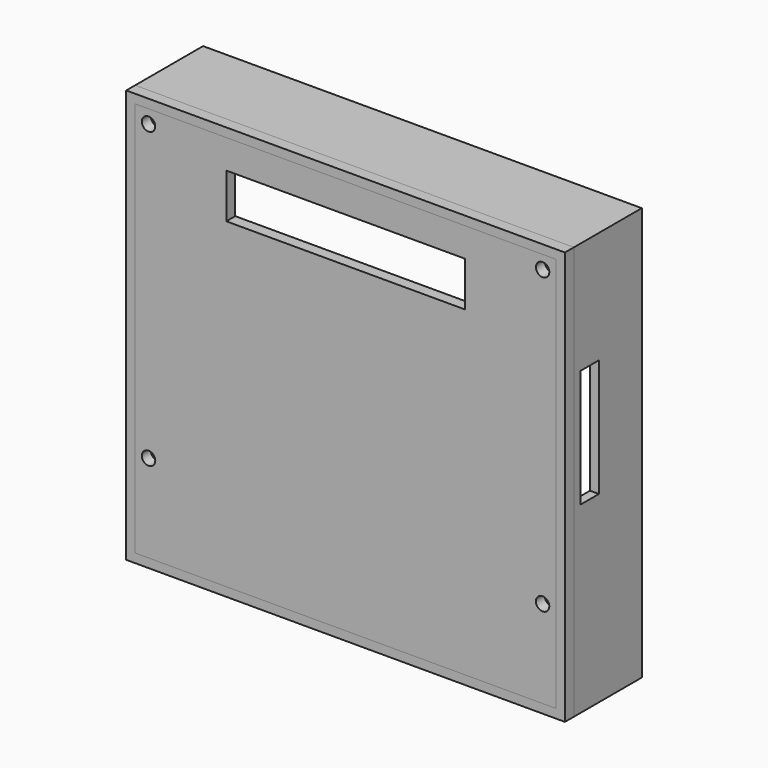
from build123d import *

# Parameters (mm, degrees)
F0_W     = 94.2
F0_H     = 88.5
F0_R     = 1.5
F0_W_2   = 53.4
F0_H_2   = 10
F1_DEPTH = 2.5
F2_W     = 98.2
F2_H     = 92.5
F3_DEPTH = 19
F4_W     = 98.2
F4_H     = 92.5
F4_W_2   = 94.2
F4_H_2   = 88.5
F5_DEPTH = 2.5
F6_W     = 5.1
F6_H     = 26.35
F7_DEPTH = 2.1


with BuildPart() as f1:
    # F0 (on Front) → F1 (new body)
    with BuildSketch(Plane.XZ):
        with Locations((47.1, 44.25)):
            Rectangle(F0_W, F0_H)
        with Locations((3, 19.65)):
            Circle(F0_R, mode=Mode.SUBTRACT)
        with Locations((91.2, 19.65)):
            Circle(F0_R, mode=Mode.SUBTRACT)
        with Locations((3, 85.5)):
            Circle(F0_R, mode=Mode.SUBTRACT)
        with Locations((47.1, 77)):
            Rectangle(F0_W_2, F0_H_2, mode=Mode.SUBTRACT)
        with Locations((91.2, 85.5)):
            Circle(F0_R, mode=Mode.SUBTRACT)
    extrude(amount=-F1_DEPTH)

    # F2 (on face) → F3 (join)
    with BuildSketch(Plane(origin=(0, 2.5, 0), x_dir=(-1, 0, 0), z_dir=(0, 1, 0))):
        with Locations((-47.1, 44.25)):
            Rectangle(F2_W, F2_H)
        with BuildLine():
            Line((-94.2, 87.75), (-94.2, 88.5))
            Line((-94.2, 88.5), (-93.45, 88.5))
            ThreePointArc((-93.45, 88.5), (-91.2, 89.25), (-88.95, 88.5))
            Line((-88.95, 88.5), (-5.25, 88.5))
            ThreePointArc((-5.25, 88.5), (-3, 89.25), (-0.75, 88.5))
            Line((-0.75, 88.5), (0, 88.5))
            Line((0, 88.5), (0, 87.75))
            ThreePointArc((0, 87.75), (0.75, 85.5), (0, 83.25))
            Line((0, 83.25), (0, 21.9))
            ThreePointArc((0, 21.9), (0.75, 19.65), (0, 17.4))
            Line((0, 17.4), (0, 0))
            Line((0, 0), (-94.2, 0))
            Line((-94.2, 0), (-94.2, 17.4))
            ThreePointArc((-94.2, 17.4), (-94.95, 19.65), (-94.2, 21.9))
            Line((-94.2, 21.9), (-94.2, 83.25))
            ThreePointArc((-94.2, 83.25), (-94.95, 85.5), (-94.2, 87.75))
        make_face(mode=Mode.SUBTRACT)
    extrude(amount=F3_DEPTH)

    # F6 (on face) → F7 (cut)
    with BuildSketch(Plane.YZ.offset(96.2)):
        with Locations((6.95, 52.225)):
            Rectangle(F6_W, F6_H)
    extrude(amount=-F7_DEPTH, mode=Mode.SUBTRACT)


with BuildPart() as f5:
    # F4 (on face) → F5 (new body)
    with BuildSketch(Plane.XZ.offset(-2.5)):
        with Locations((47.1, 44.25)):
            Rectangle(F4_W, F4_H)
        with Locations((47.1, 44.25)):
            Rectangle(F4_W_2, F4_H_2, mode=Mode.SUBTRACT)
    extrude(amount=F5_DEPTH)


solid = Compound([f1.part, f5.part])
